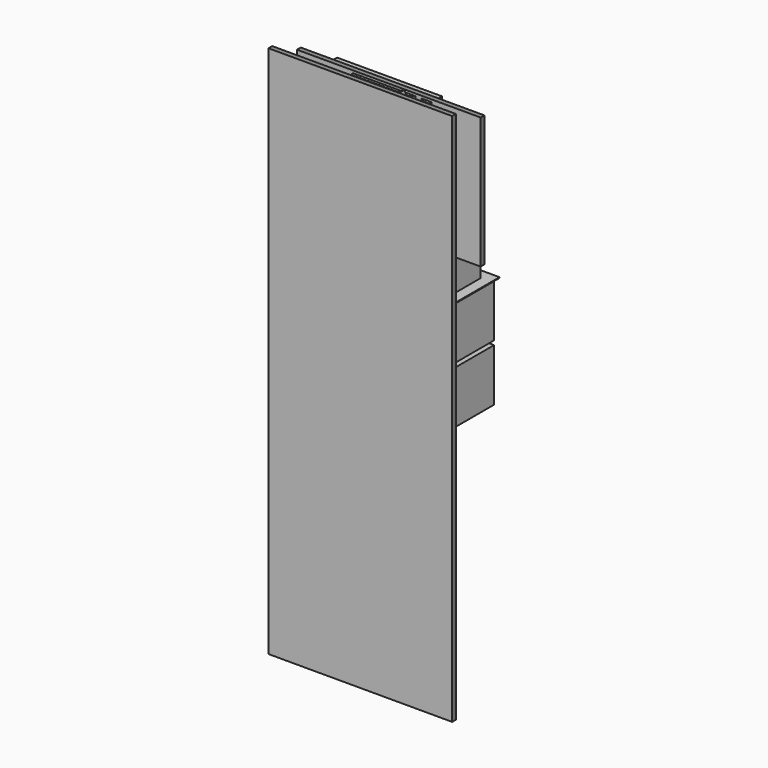
from build123d import *

# Parameters (mm, degrees)
SKETCH026_W                 = 19.95
SKETCH026_H                 = 24.84
PAD007_DEPTH                = 3
POCKET017_DEPTH             = 12.421
POCKET017_DEPTH_BACK        = 12.421
SKETCH028_W                 = 5
SKETCH028_H                 = 0.56
POCKET018_DEPTH             = 12.421
POCKET018_DEPTH_BACK        = 12.421
BODY008_ROLL_ANGLE          = 90
BODY008_PLACEMENT_ANGLE     = 180
BOX248_W                    = 5
BOX248_H                    = 5
BOX248_DEPTH                = 0.25
BOX249_W                    = 5
BOX249_H                    = 5
BOX249_DEPTH                = 0.25
BOX250_W                    = 5
BOX250_H                    = 5
BOX250_DEPTH                = 0.25
BOX251_W                    = 5
BOX251_H                    = 5
BOX251_DEPTH                = 0.25
CYLINDER119_R               = 0.5
CYLINDER119_DEPTH           = 0.01
BOX252_W                    = 4.5
BOX252_H                    = 5.5
BOX252_DEPTH                = 0.5
CUT131_ROLL_ANGLE           = 90
CUT131_PITCH_ANGLE          = 32
CUT131_PLACEMENT_ANGLE      = 180
BOX254_W                    = 6
BOX254_H                    = 6.45
BOX254_DEPTH                = 1.05
BOX253_W                    = 6
BOX253_H                    = 6.5
BOX253_DEPTH                = 1.15
CUT132_ROLL_ANGLE           = -90
CUT132_PITCH_ANGLE          = 58
CYLINDER120_R               = 0.5
CYLINDER120_DEPTH           = 0.01
BOX255_W                    = 4.5
BOX255_H                    = 5.5
BOX255_DEPTH                = 0.5
CUT133_ROLL_ANGLE           = -90
CUT133_PITCH_ANGLE          = -32
BOX257_W                    = 5
BOX257_H                    = 7.45
BOX257_DEPTH                = 1.1
BOX256_W                    = 5
BOX256_H                    = 7.5
BOX256_DEPTH                = 1.2
CUT134_ROLL_ANGLE           = 90
CUT134_PITCH_ANGLE          = 32
CUT134_PLACEMENT_ANGLE      = 180
BOX259_W                    = 6
BOX259_H                    = 6.45
BOX259_DEPTH                = 1.05
BOX258_W                    = 6
BOX258_H                    = 6.5
BOX258_DEPTH                = 1.15
CUT135_ROLL_ANGLE           = -90
CUT135_PITCH_ANGLE          = 58
CYLINDER121_R               = 0.5
CYLINDER121_DEPTH           = 0.01
BOX260_W                    = 4.5
BOX260_H                    = 5.5
BOX260_DEPTH                = 0.5
CUT136_ROLL_ANGLE           = 90
CUT136_PITCH_ANGLE          = 32
CUT136_PLACEMENT_ANGLE      = 180
CYLINDER122_R               = 0.5
CYLINDER122_DEPTH           = 0.01
BOX261_W                    = 4.5
BOX261_H                    = 5.5
BOX261_DEPTH                = 0.5
CUT137_ROLL_ANGLE           = -90
CUT137_PITCH_ANGLE          = -32
BOX262_W                    = 10
BOX262_H                    = 10
BOX262_DEPTH                = 10
CUT138_ROLL_ANGLE           = 90
CUT138_PITCH_ANGLE          = 32
CUT138_PLACEMENT_ANGLE      = 180
CYLINDER124_R               = 0.5
CYLINDER124_DEPTH           = 0.01
BOX263_W                    = 4.5
BOX263_H                    = 5.5
BOX263_DEPTH                = 0.5
CUT139_ROLL_ANGLE           = 90
CUT139_PITCH_ANGLE          = 32
CUT139_PLACEMENT_ANGLE      = 180
BOX265_W                    = 6
BOX265_H                    = 6.45
BOX265_DEPTH                = 1.05
BOX264_W                    = 6
BOX264_H                    = 6.5
BOX264_DEPTH                = 1.15
CUT140_ROLL_ANGLE           = -90
CUT140_PITCH_ANGLE          = 58
CYLINDER125_R               = 0.5
CYLINDER125_DEPTH           = 0.01
BOX266_W                    = 4.5
BOX266_H                    = 5.5
BOX266_DEPTH                = 0.5
CUT141_ROLL_ANGLE           = -90
CUT141_PITCH_ANGLE          = -32
BOX268_W                    = 5
BOX268_H                    = 7.45
BOX268_DEPTH                = 1.1
BOX267_W                    = 5
BOX267_H                    = 7.5
BOX267_DEPTH                = 1.2
CUT142_ROLL_ANGLE           = 90
CUT142_PITCH_ANGLE          = 32
CUT142_PLACEMENT_ANGLE      = 180
BOX270_W                    = 6
BOX270_H                    = 6.45
BOX270_DEPTH                = 1.05
BOX269_W                    = 6
BOX269_H                    = 6.5
BOX269_DEPTH                = 1.15
CUT143_ROLL_ANGLE           = -90
CUT143_PITCH_ANGLE          = 58
CYLINDER126_R               = 0.5
CYLINDER126_DEPTH           = 0.01
BOX271_W                    = 4.5
BOX271_H                    = 5.5
BOX271_DEPTH                = 0.5
CUT144_ROLL_ANGLE           = 90
CUT144_PITCH_ANGLE          = 32
CUT144_PLACEMENT_ANGLE      = 180
CYLINDER127_R               = 0.5
CYLINDER127_DEPTH           = 0.01
BOX272_W                    = 4.5
BOX272_H                    = 5.5
BOX272_DEPTH                = 0.5
CUT145_ROLL_ANGLE           = -90
CUT145_PITCH_ANGLE          = -32
BOX273_W                    = 10
BOX273_H                    = 10
BOX273_DEPTH                = 10
CUT146_ROLL_ANGLE           = 90
CUT146_PITCH_ANGLE          = 32
CUT146_PLACEMENT_ANGLE      = 180
CYLINDER129_R               = 0.5
CYLINDER129_DEPTH           = 0.01
BOX274_W                    = 4.5
BOX274_H                    = 5.5
BOX274_DEPTH                = 0.5
CUT147_ROLL_ANGLE           = 90
CUT147_PITCH_ANGLE          = 32
CUT147_PLACEMENT_ANGLE      = 180
BOX276_W                    = 6
BOX276_H                    = 6.45
BOX276_DEPTH                = 1.05
BOX275_W                    = 6
BOX275_H                    = 6.5
BOX275_DEPTH                = 1.15
CUT148_ROLL_ANGLE           = -90
CUT148_PITCH_ANGLE          = 58
CYLINDER130_R               = 0.5
CYLINDER130_DEPTH           = 0.01
BOX277_W                    = 4.5
BOX277_H                    = 5.5
BOX277_DEPTH                = 0.5
CUT149_ROLL_ANGLE           = -90
CUT149_PITCH_ANGLE          = -32
BOX279_W                    = 5
BOX279_H                    = 7.45
BOX279_DEPTH                = 1.1
BOX278_W                    = 5
BOX278_H                    = 7.5
BOX278_DEPTH                = 1.2
CUT150_ROLL_ANGLE           = 90
CUT150_PITCH_ANGLE          = 32
CUT150_PLACEMENT_ANGLE      = 180
BOX281_W                    = 6
BOX281_H                    = 6.45
BOX281_DEPTH                = 1.05
BOX280_W                    = 6
BOX280_H                    = 6.5
BOX280_DEPTH                = 1.15
CUT151_ROLL_ANGLE           = -90
CUT151_PITCH_ANGLE          = 58
CYLINDER131_R               = 0.5
CYLINDER131_DEPTH           = 0.01
BOX282_W                    = 4.5
BOX282_H                    = 5.5
BOX282_DEPTH                = 0.5
CUT152_ROLL_ANGLE           = 90
CUT152_PITCH_ANGLE          = 32
CUT152_PLACEMENT_ANGLE      = 180
CYLINDER132_R               = 0.5
CYLINDER132_DEPTH           = 0.01
BOX283_W                    = 4.5
BOX283_H                    = 5.5
BOX283_DEPTH                = 0.5
CUT153_ROLL_ANGLE           = -90
CUT153_PITCH_ANGLE          = -32
BOX284_W                    = 10
BOX284_H                    = 10
BOX284_DEPTH                = 10
CUT154_ROLL_ANGLE           = 90
CUT154_PITCH_ANGLE          = 32
CUT154_PLACEMENT_ANGLE      = 180
CYLINDER114_R               = 3.18
CYLINDER114_DEPTH           = 0.79
CYLINDER115_R               = 3.18
CYLINDER115_DEPTH           = 0.79
CYLINDER116_R               = 3.18
CYLINDER116_DEPTH           = 0.79
CYLINDER117_R               = 3.18
CYLINDER117_DEPTH           = 0.79
CYLINDER118_R               = 2.38
CYLINDER118_DEPTH           = 1.59
CYLINDER118_ROLL_ANGLE      = 90
CYLINDER118_PITCH_ANGLE     = 32
CYLINDER118_PLACEMENT_ANGLE = 180
CYLINDER123_R               = 2.38
CYLINDER123_DEPTH           = 1.59
CYLINDER123_ROLL_ANGLE      = 90
CYLINDER123_PITCH_ANGLE     = 32
CYLINDER123_PLACEMENT_ANGLE = 180
CYLINDER128_R               = 2.38
CYLINDER128_DEPTH           = 1.59
CYLINDER128_ROLL_ANGLE      = 90
CYLINDER128_PITCH_ANGLE     = 32
CYLINDER128_PLACEMENT_ANGLE = 180
BOX287_W                    = 5.5
BOX287_H                    = 5.5
BOX287_DEPTH                = 0.41
CYLINDER133_R               = 2.38
CYLINDER133_DEPTH           = 1.59
BOX288_W                    = 12
BOX288_H                    = 12
BOX288_DEPTH                = 0.05
BOX289_W                    = 12
BOX289_H                    = 12
BOX289_DEPTH                = 0.15
BOX290_W                    = 12
BOX290_H                    = 12
BOX290_DEPTH                = 0.15
BOX291_W                    = 12
BOX291_H                    = 12
BOX291_DEPTH                = 0.15
BOX292_W                    = 12
BOX292_H                    = 12
BOX292_DEPTH                = 0.15
BOX293_W                    = 10
BOX293_H                    = 10
BOX293_DEPTH                = 10
BOX294_W                    = 11
BOX294_H                    = 11
BOX294_DEPTH                = 0.41
CYLINDER134_R               = 4.76
CYLINDER134_DEPTH           = 1.59
CYLINDER135_R               = 4.76
CYLINDER135_DEPTH           = 1.59
BOX295_W                    = 10
BOX295_H                    = 10
BOX295_DEPTH                = 10
BOX296_W                    = 12
BOX296_H                    = 12
BOX296_DEPTH                = 0.15
BOX297_W                    = 10
BOX297_H                    = 10
BOX297_DEPTH                = 10
BOX298_W                    = 12
BOX298_H                    = 12
BOX298_DEPTH                = 0.15
CYLINDER136_R               = 4.76
CYLINDER136_DEPTH           = 1.59
BOX299_W                    = 10
BOX299_H                    = 10
BOX299_DEPTH                = 10
CYLINDER137_R               = 4.76
CYLINDER137_DEPTH           = 1.59
BOX_W                       = 35
BOX_H                       = 25
BOX_DEPTH                   = 0.15
BOX300_W                    = 35
BOX300_H                    = 25
BOX300_DEPTH                = 0.15
BOX301_W                    = 35
BOX301_H                    = 25
BOX301_DEPTH                = 0.15
BOX302_W                    = 35
BOX302_H                    = 25
BOX302_DEPTH                = 0.15
BOX303_W                    = 35
BOX303_H                    = 25
BOX303_DEPTH                = 0.15
BOX304_W                    = 35
BOX304_H                    = 25
BOX304_DEPTH                = 0.15
CYLINDER138_R               = 3.18
CYLINDER138_DEPTH           = 0.79
BOX305_W                    = 10
BOX305_H                    = 10
BOX305_DEPTH                = 10
CYLINDER139_R               = 3.18
CYLINDER139_DEPTH           = 0.79
BOX306_W                    = 10
BOX306_H                    = 10
BOX306_DEPTH                = 10
CYLINDER140_R               = 3.18
CYLINDER140_DEPTH           = 0.79
BOX307_W                    = 10
BOX307_H                    = 10
BOX307_DEPTH                = 10
CYLINDER141_R               = 3.18
CYLINDER141_DEPTH           = 0.79
BOX308_W                    = 10
BOX308_H                    = 10
BOX308_DEPTH                = 10
CYLINDER142_R               = 3.18
CYLINDER142_DEPTH           = 0.79
CYLINDER143_R               = 3.18
CYLINDER143_DEPTH           = 0.79
BOX309_W                    = 35
BOX309_H                    = 101.6
BOX309_DEPTH                = 0.15
BOX310_W                    = 35
BOX310_H                    = 101.6
BOX310_DEPTH                = 0.15
BOX311_W                    = 35
BOX311_H                    = 101.6
BOX311_DEPTH                = 0.15
BOX312_W                    = 35
BOX312_H                    = 101.6
BOX312_DEPTH                = 0.15
BOX313_W                    = 35
BOX313_H                    = 101.6
BOX313_DEPTH                = 0.15
BOX314_W                    = 35
BOX314_H                    = 101.6
BOX314_DEPTH                = 0.15


with BuildPart() as coarse_z_slider_phase_i:
    # Sketch026 (on XY_Plane011 of Origin042) → Pad007 (new body)
    with BuildSketch(Plane.XY):
        with Locations((2.325, 0)):
            Rectangle(SKETCH026_W, SKETCH026_H)
    extrude(amount=PAD007_DEPTH)

    # Sketch027 (on XZ_Plane011 of Origin042) → Pocket017 (cut, two sides)
    with BuildSketch(Plane.XZ) as pocket017_sk:
        Polygon((-5.15, 0.866025), (-6.65, 0), (-3.65, 0), align=None)
    extrude(amount=-POCKET017_DEPTH, mode=Mode.SUBTRACT)
    extrude(pocket017_sk.sketch, amount=POCKET017_DEPTH_BACK, mode=Mode.SUBTRACT)

    # Sketch028 (on XZ_Plane011 of Origin042) → Pocket018 (cut, two sides)
    with BuildSketch(Plane.XZ) as pocket018_sk:
        with Locations((9.8, 0.28)):
            Rectangle(SKETCH028_W, SKETCH028_H)
    extrude(amount=-POCKET018_DEPTH, mode=Mode.SUBTRACT)
    extrude(pocket018_sk.sketch, amount=POCKET018_DEPTH_BACK, mode=Mode.SUBTRACT)


with BuildPart() as coarse_z_slider_phase_i_1:
    # Body008 roll: moved
    add(coarse_z_slider_phase_i.part.rotate(Axis((0, 0, 0), (1, 0, 0)), BODY008_ROLL_ANGLE))


with BuildPart() as coarse_z_slider_phase_i_2:
    # Body008 placement: moved
    add(coarse_z_slider_phase_i_1.part.moved(Location((13, 5.33, 24.12))).rotate(Axis((13, 5.33, 24.12), (0, 0, 1)), BODY008_PLACEMENT_ANGLE))


with BuildPart() as steel_shim_spacer016:
    # Box248 → Box248 (new body)
    with BuildSketch(Plane(origin=(14.5, 0, 21.62), x_dir=(-1, 0, 0), z_dir=(0, 1, 0))):
        with Locations((2.5, 2.5)):
            Rectangle(BOX248_W, BOX248_H)
    extrude(amount=BOX248_DEPTH)


with BuildPart() as steel_shim_spacer017:
    # Box249 → Box249 (new body)
    with BuildSketch(Plane(origin=(14.5, 1.04, 21.62), x_dir=(-1, 0, 0), z_dir=(0, 1, 0))):
        with Locations((2.5, 2.5)):
            Rectangle(BOX249_W, BOX249_H)
    extrude(amount=BOX249_DEPTH)


with BuildPart() as steel_shim_spacer018:
    # Box250 → Box250 (new body)
    with BuildSketch(Plane(origin=(14.5, 2.08, 21.62), x_dir=(-1, 0, 0), z_dir=(0, 1, 0))):
        with Locations((2.5, 2.5)):
            Rectangle(BOX250_W, BOX250_H)
    extrude(amount=BOX250_DEPTH)


with BuildPart() as steel_shim_spacer019:
    # Box251 → Box251 (new body)
    with BuildSketch(Plane(origin=(14.5, 3.12, 21.62), x_dir=(-1, 0, 0), z_dir=(0, 1, 0))):
        with Locations((2.5, 2.5)):
            Rectangle(BOX251_W, BOX251_H)
    extrude(amount=BOX251_DEPTH)


with BuildPart() as cylinder119:
    # Cylinder119 → Cylinder119 (new body)
    with BuildSketch(Plane(origin=(1, 4.5, 0.49), x_dir=(1, 0, 0), z_dir=(0, 0, 1))):
        Circle(CYLINDER119_R)
    extrude(amount=CYLINDER119_DEPTH)


with BuildPart() as obj1:
    # Box252 → Box252 (new body)
    with BuildSketch(Plane.XY):
        with Locations((2.25, 2.75)):
            Rectangle(BOX252_W, BOX252_H)
    extrude(amount=BOX252_DEPTH)

    # Cut131: cut Cylinder119
    add(cylinder119.part, mode=Mode.SUBTRACT)


with BuildPart() as obj1_1:
    # Cut131 roll: moved
    add(obj1.part.rotate(Axis((0, 0, 0), (1, 0, 0)), CUT131_ROLL_ANGLE))


with BuildPart() as obj1_2:
    # Cut131 pitch: moved
    add(obj1_1.part.rotate(Axis((0, 0, 0), (0, 1, 0)), CUT131_PITCH_ANGLE))


with BuildPart() as obj1_3:
    # Cut131 placement: moved
    add(obj1_2.part.moved(Location((21.429562, 1.64, 14.442853))).rotate(Axis((21.429562, 1.64, 14.442853), (0, 0, 1)), CUT131_PLACEMENT_ANGLE))


with BuildPart() as small_cu_gnd_electrode106:
    # Box254 → Box254 (new body)
    with BuildSketch(Plane.XY.offset(0.05)):
        with Locations((3, 3.225)):
            Rectangle(BOX254_W, BOX254_H)
    extrude(amount=BOX254_DEPTH)


with BuildPart() as small_cu_electrode_short_axis_gnd014:
    # Box253 → Box253 (new body)
    with BuildSketch(Plane.XY):
        with Locations((3, 3.25)):
            Rectangle(BOX253_W, BOX253_H)
    extrude(amount=BOX253_DEPTH)

    # Cut132: cut Small Cu GND Electrode106
    add(small_cu_gnd_electrode106.part, mode=Mode.SUBTRACT)


with BuildPart() as small_cu_electrode_short_axis_gnd014_1:
    # Cut132 roll: moved
    add(small_cu_electrode_short_axis_gnd014.part.rotate(Axis((0, 0, 0), (1, 0, 0)), CUT132_ROLL_ANGLE))


with BuildPart() as small_cu_electrode_short_axis_gnd014_2:
    # Cut132 pitch: moved
    add(small_cu_electrode_short_axis_gnd014_1.part.rotate(Axis((0, 0, 0), (0, 1, 0)), CUT132_PITCH_ANGLE))


with BuildPart() as small_cu_electrode_short_axis_gnd014_3:
    # Cut132 placement: moved
    add(small_cu_electrode_short_axis_gnd014_2.part.moved(Location((18.250047, 1.59, 19.531142))))


with BuildPart() as cylinder120:
    # Cylinder120 → Cylinder120 (new body)
    with BuildSketch(Plane(origin=(1, 4.5, 0.49), x_dir=(1, 0, 0), z_dir=(0, 0, 1))):
        Circle(CYLINDER120_R)
    extrude(amount=CYLINDER120_DEPTH)


with BuildPart() as obj2:
    # Box255 → Box255 (new body)
    with BuildSketch(Plane.XY):
        with Locations((2.25, 2.75)):
            Rectangle(BOX255_W, BOX255_H)
    extrude(amount=BOX255_DEPTH)

    # Cut133: cut Cylinder120
    add(cylinder120.part, mode=Mode.SUBTRACT)


with BuildPart() as obj2_1:
    # Cut133 roll: moved
    add(obj2.part.rotate(Axis((0, 0, 0), (1, 0, 0)), CUT133_ROLL_ANGLE))


with BuildPart() as obj2_2:
    # Cut133 pitch: moved
    add(obj2_1.part.rotate(Axis((0, 0, 0), (0, 1, 0)), CUT133_PITCH_ANGLE))


with BuildPart() as obj2_3:
    # Cut133 placement: moved
    add(obj2_2.part.moved(Location((14.69879, 2.19, 16.722481))))


with BuildPart() as small_cu_gnd_electrode108:
    # Box257 → Box257 (new body)
    with BuildSketch(Plane.XY.offset(0.05)):
        with Locations((2.5, 3.725)):
            Rectangle(BOX257_W, BOX257_H)
    extrude(amount=BOX257_DEPTH)


with BuildPart() as small_cu_electrode001_long_axis_v014:
    # Box256 → Box256 (new body)
    with BuildSketch(Plane.XY):
        with Locations((2.5, 3.75)):
            Rectangle(BOX256_W, BOX256_H)
    extrude(amount=BOX256_DEPTH)

    # Cut134: cut Small Cu GND Electrode108
    add(small_cu_gnd_electrode108.part, mode=Mode.SUBTRACT)


with BuildPart() as small_cu_electrode001_long_axis_v014_1:
    # Cut134 roll: moved
    add(small_cu_electrode001_long_axis_v014.part.rotate(Axis((0, 0, 0), (1, 0, 0)), CUT134_ROLL_ANGLE))


with BuildPart() as small_cu_electrode001_long_axis_v014_2:
    # Cut134 pitch: moved
    add(small_cu_electrode001_long_axis_v014_1.part.rotate(Axis((0, 0, 0), (0, 1, 0)), CUT134_PITCH_ANGLE))


with BuildPart() as small_cu_electrode001_long_axis_v014_3:
    # Cut134 placement: moved
    add(small_cu_electrode001_long_axis_v014_2.part.moved(Location((21.429562, 2.14, 14.442853))).rotate(Axis((21.429562, 2.14, 14.442853), (0, 0, 1)), CUT134_PLACEMENT_ANGLE))


with BuildPart() as small_cu_gnd_electrode110:
    # Box259 → Box259 (new body)
    with BuildSketch(Plane.XY.offset(0.05)):
        with Locations((3, 3.225)):
            Rectangle(BOX259_W, BOX259_H)
    extrude(amount=BOX259_DEPTH)


with BuildPart() as small_cu_electrode002_short_axis_gnd014:
    # Box258 → Box258 (new body)
    with BuildSketch(Plane.XY):
        with Locations((3, 3.25)):
            Rectangle(BOX258_W, BOX258_H)
    extrude(amount=BOX258_DEPTH)

    # Cut135: cut Small Cu GND Electrode110
    add(small_cu_gnd_electrode110.part, mode=Mode.SUBTRACT)


with BuildPart() as small_cu_electrode002_short_axis_gnd014_1:
    # Cut135 roll: moved
    add(small_cu_electrode002_short_axis_gnd014.part.rotate(Axis((0, 0, 0), (1, 0, 0)), CUT135_ROLL_ANGLE))


with BuildPart() as small_cu_electrode002_short_axis_gnd014_2:
    # Cut135 pitch: moved
    add(small_cu_electrode002_short_axis_gnd014_1.part.rotate(Axis((0, 0, 0), (0, 1, 0)), CUT135_PITCH_ANGLE))


with BuildPart() as small_cu_electrode002_short_axis_gnd014_3:
    # Cut135 placement: moved
    add(small_cu_electrode002_short_axis_gnd014_2.part.moved(Location((18.250047, 2.74, 19.531142))))


with BuildPart() as cylinder121:
    # Cylinder121 → Cylinder121 (new body)
    with BuildSketch(Plane(origin=(1, 4.5, 0.49), x_dir=(1, 0, 0), z_dir=(0, 0, 1))):
        Circle(CYLINDER121_R)
    extrude(amount=CYLINDER121_DEPTH)


with BuildPart() as obj3:
    # Box260 → Box260 (new body)
    with BuildSketch(Plane.XY):
        with Locations((2.25, 2.75)):
            Rectangle(BOX260_W, BOX260_H)
    extrude(amount=BOX260_DEPTH)

    # Cut136: cut Cylinder121
    add(cylinder121.part, mode=Mode.SUBTRACT)


with BuildPart() as obj3_1:
    # Cut136 roll: moved
    add(obj3.part.rotate(Axis((0, 0, 0), (1, 0, 0)), CUT136_ROLL_ANGLE))


with BuildPart() as obj3_2:
    # Cut136 pitch: moved
    add(obj3_1.part.rotate(Axis((0, 0, 0), (0, 1, 0)), CUT136_PITCH_ANGLE))


with BuildPart() as obj3_3:
    # Cut136 placement: moved
    add(obj3_2.part.moved(Location((21.429562, 2.79, 14.442853))).rotate(Axis((21.429562, 2.79, 14.442853), (0, 0, 1)), CUT136_PLACEMENT_ANGLE))


with BuildPart() as cylinder122:
    # Cylinder122 → Cylinder122 (new body)
    with BuildSketch(Plane(origin=(1, 4.5, 0.49), x_dir=(1, 0, 0), z_dir=(0, 0, 1))):
        Circle(CYLINDER122_R)
    extrude(amount=CYLINDER122_DEPTH)


with BuildPart() as obj4:
    # Box261 → Box261 (new body)
    with BuildSketch(Plane.XY):
        with Locations((2.25, 2.75)):
            Rectangle(BOX261_W, BOX261_H)
    extrude(amount=BOX261_DEPTH)

    # Cut137: cut Cylinder122
    add(cylinder122.part, mode=Mode.SUBTRACT)


with BuildPart() as obj4_1:
    # Cut137 roll: moved
    add(obj4.part.rotate(Axis((0, 0, 0), (1, 0, 0)), CUT137_ROLL_ANGLE))


with BuildPart() as obj4_2:
    # Cut137 pitch: moved
    add(obj4_1.part.rotate(Axis((0, 0, 0), (0, 1, 0)), CUT137_PITCH_ANGLE))


with BuildPart() as obj4_3:
    # Cut137 placement: moved
    add(obj4_2.part.moved(Location((14.69879, 3.34, 16.722481))))


with BuildPart() as cube022:
    # Box262 → Box262 (new body)
    with BuildSketch(Plane(origin=(-5, -5, -10), x_dir=(1, 0, 0), z_dir=(0, 0, 1))):
        with Locations((5, 5)):
            Rectangle(BOX262_W, BOX262_H)
    extrude(amount=BOX262_DEPTH)


with BuildPart() as sapphire_half_ball_lens018:
    # Sphere018 → Sphere018 (revolve)
    with BuildSketch(Plane.XZ):
        with BuildLine():
            ThreePointArc((0, -2), (2, 0), (0, 2))
            Line((0, 2), (0, -2))
        make_face()
    revolve(axis=Axis((0, 0, 0), (0, 0, 1)))

    # Cut138: cut Cube022
    add(cube022.part, mode=Mode.SUBTRACT)


with BuildPart() as sapphire_half_ball_lens018_1:
    # Cut138 roll: moved
    add(sapphire_half_ball_lens018.part.rotate(Axis((0, 0, 0), (1, 0, 0)), CUT138_ROLL_ANGLE))


with BuildPart() as sapphire_half_ball_lens018_2:
    # Cut138 pitch: moved
    add(sapphire_half_ball_lens018_1.part.rotate(Axis((0, 0, 0), (0, 1, 0)), CUT138_PITCH_ANGLE))


with BuildPart() as sapphire_half_ball_lens018_3:
    # Cut138 placement: moved
    add(sapphire_half_ball_lens018_2.part.moved(Location((18.15, 3.89, 15.2))).rotate(Axis((18.15, 3.89, 15.2), (0, 0, 1)), CUT138_PLACEMENT_ANGLE))


with BuildPart() as cylinder124:
    # Cylinder124 → Cylinder124 (new body)
    with BuildSketch(Plane(origin=(1, 4.5, 0.49), x_dir=(1, 0, 0), z_dir=(0, 0, 1))):
        Circle(CYLINDER124_R)
    extrude(amount=CYLINDER124_DEPTH)


with BuildPart() as obj5:
    # Box263 → Box263 (new body)
    with BuildSketch(Plane.XY):
        with Locations((2.25, 2.75)):
            Rectangle(BOX263_W, BOX263_H)
    extrude(amount=BOX263_DEPTH)

    # Cut139: cut Cylinder124
    add(cylinder124.part, mode=Mode.SUBTRACT)


with BuildPart() as obj5_1:
    # Cut139 roll: moved
    add(obj5.part.rotate(Axis((0, 0, 0), (1, 0, 0)), CUT139_ROLL_ANGLE))


with BuildPart() as obj5_2:
    # Cut139 pitch: moved
    add(obj5_1.part.rotate(Axis((0, 0, 0), (0, 1, 0)), CUT139_PITCH_ANGLE))


with BuildPart() as obj5_3:
    # Cut139 placement: moved
    add(obj5_2.part.moved(Location((21.429562, 1.64, 32.282853))).rotate(Axis((21.429562, 1.64, 32.282853), (0, 0, 1)), CUT139_PLACEMENT_ANGLE))


with BuildPart() as small_cu_gnd_electrode112:
    # Box265 → Box265 (new body)
    with BuildSketch(Plane.XY.offset(0.05)):
        with Locations((3, 3.225)):
            Rectangle(BOX265_W, BOX265_H)
    extrude(amount=BOX265_DEPTH)


with BuildPart() as small_cu_electrode_short_axis_gnd015:
    # Box264 → Box264 (new body)
    with BuildSketch(Plane.XY):
        with Locations((3, 3.25)):
            Rectangle(BOX264_W, BOX264_H)
    extrude(amount=BOX264_DEPTH)

    # Cut140: cut Small Cu GND Electrode112
    add(small_cu_gnd_electrode112.part, mode=Mode.SUBTRACT)


with BuildPart() as small_cu_electrode_short_axis_gnd015_1:
    # Cut140 roll: moved
    add(small_cu_electrode_short_axis_gnd015.part.rotate(Axis((0, 0, 0), (1, 0, 0)), CUT140_ROLL_ANGLE))


with BuildPart() as small_cu_electrode_short_axis_gnd015_2:
    # Cut140 pitch: moved
    add(small_cu_electrode_short_axis_gnd015_1.part.rotate(Axis((0, 0, 0), (0, 1, 0)), CUT140_PITCH_ANGLE))


with BuildPart() as small_cu_electrode_short_axis_gnd015_3:
    # Cut140 placement: moved
    add(small_cu_electrode_short_axis_gnd015_2.part.moved(Location((18.250047, 1.59, 37.371142))))


with BuildPart() as cylinder125:
    # Cylinder125 → Cylinder125 (new body)
    with BuildSketch(Plane(origin=(1, 4.5, 0.49), x_dir=(1, 0, 0), z_dir=(0, 0, 1))):
        Circle(CYLINDER125_R)
    extrude(amount=CYLINDER125_DEPTH)


with BuildPart() as obj6:
    # Box266 → Box266 (new body)
    with BuildSketch(Plane.XY):
        with Locations((2.25, 2.75)):
            Rectangle(BOX266_W, BOX266_H)
    extrude(amount=BOX266_DEPTH)

    # Cut141: cut Cylinder125
    add(cylinder125.part, mode=Mode.SUBTRACT)


with BuildPart() as obj6_1:
    # Cut141 roll: moved
    add(obj6.part.rotate(Axis((0, 0, 0), (1, 0, 0)), CUT141_ROLL_ANGLE))


with BuildPart() as obj6_2:
    # Cut141 pitch: moved
    add(obj6_1.part.rotate(Axis((0, 0, 0), (0, 1, 0)), CUT141_PITCH_ANGLE))


with BuildPart() as obj6_3:
    # Cut141 placement: moved
    add(obj6_2.part.moved(Location((14.69879, 2.19, 34.562481))))


with BuildPart() as small_cu_gnd_electrode114:
    # Box268 → Box268 (new body)
    with BuildSketch(Plane.XY.offset(0.05)):
        with Locations((2.5, 3.725)):
            Rectangle(BOX268_W, BOX268_H)
    extrude(amount=BOX268_DEPTH)


with BuildPart() as small_cu_electrode001_long_axis_v015:
    # Box267 → Box267 (new body)
    with BuildSketch(Plane.XY):
        with Locations((2.5, 3.75)):
            Rectangle(BOX267_W, BOX267_H)
    extrude(amount=BOX267_DEPTH)

    # Cut142: cut Small Cu GND Electrode114
    add(small_cu_gnd_electrode114.part, mode=Mode.SUBTRACT)


with BuildPart() as small_cu_electrode001_long_axis_v015_1:
    # Cut142 roll: moved
    add(small_cu_electrode001_long_axis_v015.part.rotate(Axis((0, 0, 0), (1, 0, 0)), CUT142_ROLL_ANGLE))


with BuildPart() as small_cu_electrode001_long_axis_v015_2:
    # Cut142 pitch: moved
    add(small_cu_electrode001_long_axis_v015_1.part.rotate(Axis((0, 0, 0), (0, 1, 0)), CUT142_PITCH_ANGLE))


with BuildPart() as small_cu_electrode001_long_axis_v015_3:
    # Cut142 placement: moved
    add(small_cu_electrode001_long_axis_v015_2.part.moved(Location((21.429562, 2.14, 32.282853))).rotate(Axis((21.429562, 2.14, 32.282853), (0, 0, 1)), CUT142_PLACEMENT_ANGLE))


with BuildPart() as small_cu_gnd_electrode116:
    # Box270 → Box270 (new body)
    with BuildSketch(Plane.XY.offset(0.05)):
        with Locations((3, 3.225)):
            Rectangle(BOX270_W, BOX270_H)
    extrude(amount=BOX270_DEPTH)


with BuildPart() as small_cu_electrode002_short_axis_gnd015:
    # Box269 → Box269 (new body)
    with BuildSketch(Plane.XY):
        with Locations((3, 3.25)):
            Rectangle(BOX269_W, BOX269_H)
    extrude(amount=BOX269_DEPTH)

    # Cut143: cut Small Cu GND Electrode116
    add(small_cu_gnd_electrode116.part, mode=Mode.SUBTRACT)


with BuildPart() as small_cu_electrode002_short_axis_gnd015_1:
    # Cut143 roll: moved
    add(small_cu_electrode002_short_axis_gnd015.part.rotate(Axis((0, 0, 0), (1, 0, 0)), CUT143_ROLL_ANGLE))


with BuildPart() as small_cu_electrode002_short_axis_gnd015_2:
    # Cut143 pitch: moved
    add(small_cu_electrode002_short_axis_gnd015_1.part.rotate(Axis((0, 0, 0), (0, 1, 0)), CUT143_PITCH_ANGLE))


with BuildPart() as small_cu_electrode002_short_axis_gnd015_3:
    # Cut143 placement: moved
    add(small_cu_electrode002_short_axis_gnd015_2.part.moved(Location((18.250047, 2.74, 37.371142))))


with BuildPart() as cylinder126:
    # Cylinder126 → Cylinder126 (new body)
    with BuildSketch(Plane(origin=(1, 4.5, 0.49), x_dir=(1, 0, 0), z_dir=(0, 0, 1))):
        Circle(CYLINDER126_R)
    extrude(amount=CYLINDER126_DEPTH)


with BuildPart() as obj7:
    # Box271 → Box271 (new body)
    with BuildSketch(Plane.XY):
        with Locations((2.25, 2.75)):
            Rectangle(BOX271_W, BOX271_H)
    extrude(amount=BOX271_DEPTH)

    # Cut144: cut Cylinder126
    add(cylinder126.part, mode=Mode.SUBTRACT)


with BuildPart() as obj7_1:
    # Cut144 roll: moved
    add(obj7.part.rotate(Axis((0, 0, 0), (1, 0, 0)), CUT144_ROLL_ANGLE))


with BuildPart() as obj7_2:
    # Cut144 pitch: moved
    add(obj7_1.part.rotate(Axis((0, 0, 0), (0, 1, 0)), CUT144_PITCH_ANGLE))


with BuildPart() as obj7_3:
    # Cut144 placement: moved
    add(obj7_2.part.moved(Location((21.429562, 2.79, 32.282853))).rotate(Axis((21.429562, 2.79, 32.282853), (0, 0, 1)), CUT144_PLACEMENT_ANGLE))


with BuildPart() as cylinder127:
    # Cylinder127 → Cylinder127 (new body)
    with BuildSketch(Plane(origin=(1, 4.5, 0.49), x_dir=(1, 0, 0), z_dir=(0, 0, 1))):
        Circle(CYLINDER127_R)
    extrude(amount=CYLINDER127_DEPTH)


with BuildPart() as obj8:
    # Box272 → Box272 (new body)
    with BuildSketch(Plane.XY):
        with Locations((2.25, 2.75)):
            Rectangle(BOX272_W, BOX272_H)
    extrude(amount=BOX272_DEPTH)

    # Cut145: cut Cylinder127
    add(cylinder127.part, mode=Mode.SUBTRACT)


with BuildPart() as obj8_1:
    # Cut145 roll: moved
    add(obj8.part.rotate(Axis((0, 0, 0), (1, 0, 0)), CUT145_ROLL_ANGLE))


with BuildPart() as obj8_2:
    # Cut145 pitch: moved
    add(obj8_1.part.rotate(Axis((0, 0, 0), (0, 1, 0)), CUT145_PITCH_ANGLE))


with BuildPart() as obj8_3:
    # Cut145 placement: moved
    add(obj8_2.part.moved(Location((14.69879, 3.34, 34.562481))))


with BuildPart() as cube023:
    # Box273 → Box273 (new body)
    with BuildSketch(Plane(origin=(-5, -5, -10), x_dir=(1, 0, 0), z_dir=(0, 0, 1))):
        with Locations((5, 5)):
            Rectangle(BOX273_W, BOX273_H)
    extrude(amount=BOX273_DEPTH)


with BuildPart() as sapphire_half_ball_lens019:
    # Sphere019 → Sphere019 (revolve)
    with BuildSketch(Plane.XZ):
        with BuildLine():
            ThreePointArc((0, -2), (2, 0), (0, 2))
            Line((0, 2), (0, -2))
        make_face()
    revolve(axis=Axis((0, 0, 0), (0, 0, 1)))

    # Cut146: cut Cube023
    add(cube023.part, mode=Mode.SUBTRACT)


with BuildPart() as sapphire_half_ball_lens019_1:
    # Cut146 roll: moved
    add(sapphire_half_ball_lens019.part.rotate(Axis((0, 0, 0), (1, 0, 0)), CUT146_ROLL_ANGLE))


with BuildPart() as sapphire_half_ball_lens019_2:
    # Cut146 pitch: moved
    add(sapphire_half_ball_lens019_1.part.rotate(Axis((0, 0, 0), (0, 1, 0)), CUT146_PITCH_ANGLE))


with BuildPart() as sapphire_half_ball_lens019_3:
    # Cut146 placement: moved
    add(sapphire_half_ball_lens019_2.part.moved(Location((18.15, 3.89, 33.04))).rotate(Axis((18.15, 3.89, 33.04), (0, 0, 1)), CUT146_PLACEMENT_ANGLE))


with BuildPart() as cylinder129:
    # Cylinder129 → Cylinder129 (new body)
    with BuildSketch(Plane(origin=(1, 4.5, 0.49), x_dir=(1, 0, 0), z_dir=(0, 0, 1))):
        Circle(CYLINDER129_R)
    extrude(amount=CYLINDER129_DEPTH)


with BuildPart() as obj9:
    # Box274 → Box274 (new body)
    with BuildSketch(Plane.XY):
        with Locations((2.25, 2.75)):
            Rectangle(BOX274_W, BOX274_H)
    extrude(amount=BOX274_DEPTH)

    # Cut147: cut Cylinder129
    add(cylinder129.part, mode=Mode.SUBTRACT)


with BuildPart() as obj9_1:
    # Cut147 roll: moved
    add(obj9.part.rotate(Axis((0, 0, 0), (1, 0, 0)), CUT147_ROLL_ANGLE))


with BuildPart() as obj9_2:
    # Cut147 pitch: moved
    add(obj9_1.part.rotate(Axis((0, 0, 0), (0, 1, 0)), CUT147_PITCH_ANGLE))


with BuildPart() as obj9_3:
    # Cut147 placement: moved
    add(obj9_2.part.moved(Location((5.979562, 1.64, 23.362853))).rotate(Axis((5.979562, 1.64, 23.362853), (0, 0, 1)), CUT147_PLACEMENT_ANGLE))


with BuildPart() as small_cu_gnd_electrode118:
    # Box276 → Box276 (new body)
    with BuildSketch(Plane.XY.offset(0.05)):
        with Locations((3, 3.225)):
            Rectangle(BOX276_W, BOX276_H)
    extrude(amount=BOX276_DEPTH)


with BuildPart() as small_cu_electrode_short_axis_gnd016:
    # Box275 → Box275 (new body)
    with BuildSketch(Plane.XY):
        with Locations((3, 3.25)):
            Rectangle(BOX275_W, BOX275_H)
    extrude(amount=BOX275_DEPTH)

    # Cut148: cut Small Cu GND Electrode118
    add(small_cu_gnd_electrode118.part, mode=Mode.SUBTRACT)


with BuildPart() as small_cu_electrode_short_axis_gnd016_1:
    # Cut148 roll: moved
    add(small_cu_electrode_short_axis_gnd016.part.rotate(Axis((0, 0, 0), (1, 0, 0)), CUT148_ROLL_ANGLE))


with BuildPart() as small_cu_electrode_short_axis_gnd016_2:
    # Cut148 pitch: moved
    add(small_cu_electrode_short_axis_gnd016_1.part.rotate(Axis((0, 0, 0), (0, 1, 0)), CUT148_PITCH_ANGLE))


with BuildPart() as small_cu_electrode_short_axis_gnd016_3:
    # Cut148 placement: moved
    add(small_cu_electrode_short_axis_gnd016_2.part.moved(Location((2.800047, 1.59, 28.451142))))


with BuildPart() as cylinder130:
    # Cylinder130 → Cylinder130 (new body)
    with BuildSketch(Plane(origin=(1, 4.5, 0.49), x_dir=(1, 0, 0), z_dir=(0, 0, 1))):
        Circle(CYLINDER130_R)
    extrude(amount=CYLINDER130_DEPTH)


with BuildPart() as obj10:
    # Box277 → Box277 (new body)
    with BuildSketch(Plane.XY):
        with Locations((2.25, 2.75)):
            Rectangle(BOX277_W, BOX277_H)
    extrude(amount=BOX277_DEPTH)

    # Cut149: cut Cylinder130
    add(cylinder130.part, mode=Mode.SUBTRACT)


with BuildPart() as obj10_1:
    # Cut149 roll: moved
    add(obj10.part.rotate(Axis((0, 0, 0), (1, 0, 0)), CUT149_ROLL_ANGLE))


with BuildPart() as obj10_2:
    # Cut149 pitch: moved
    add(obj10_1.part.rotate(Axis((0, 0, 0), (0, 1, 0)), CUT149_PITCH_ANGLE))


with BuildPart() as obj10_3:
    # Cut149 placement: moved
    add(obj10_2.part.moved(Location((-0.75121, 2.19, 25.642481))))


with BuildPart() as small_cu_gnd_electrode120:
    # Box279 → Box279 (new body)
    with BuildSketch(Plane.XY.offset(0.05)):
        with Locations((2.5, 3.725)):
            Rectangle(BOX279_W, BOX279_H)
    extrude(amount=BOX279_DEPTH)


with BuildPart() as small_cu_electrode001_long_axis_v016:
    # Box278 → Box278 (new body)
    with BuildSketch(Plane.XY):
        with Locations((2.5, 3.75)):
            Rectangle(BOX278_W, BOX278_H)
    extrude(amount=BOX278_DEPTH)

    # Cut150: cut Small Cu GND Electrode120
    add(small_cu_gnd_electrode120.part, mode=Mode.SUBTRACT)


with BuildPart() as small_cu_electrode001_long_axis_v016_1:
    # Cut150 roll: moved
    add(small_cu_electrode001_long_axis_v016.part.rotate(Axis((0, 0, 0), (1, 0, 0)), CUT150_ROLL_ANGLE))


with BuildPart() as small_cu_electrode001_long_axis_v016_2:
    # Cut150 pitch: moved
    add(small_cu_electrode001_long_axis_v016_1.part.rotate(Axis((0, 0, 0), (0, 1, 0)), CUT150_PITCH_ANGLE))


with BuildPart() as small_cu_electrode001_long_axis_v016_3:
    # Cut150 placement: moved
    add(small_cu_electrode001_long_axis_v016_2.part.moved(Location((5.979562, 2.14, 23.362853))).rotate(Axis((5.979562, 2.14, 23.362853), (0, 0, 1)), CUT150_PLACEMENT_ANGLE))


with BuildPart() as small_cu_gnd_electrode122:
    # Box281 → Box281 (new body)
    with BuildSketch(Plane.XY.offset(0.05)):
        with Locations((3, 3.225)):
            Rectangle(BOX281_W, BOX281_H)
    extrude(amount=BOX281_DEPTH)


with BuildPart() as small_cu_electrode002_short_axis_gnd016:
    # Box280 → Box280 (new body)
    with BuildSketch(Plane.XY):
        with Locations((3, 3.25)):
            Rectangle(BOX280_W, BOX280_H)
    extrude(amount=BOX280_DEPTH)

    # Cut151: cut Small Cu GND Electrode122
    add(small_cu_gnd_electrode122.part, mode=Mode.SUBTRACT)


with BuildPart() as small_cu_electrode002_short_axis_gnd016_1:
    # Cut151 roll: moved
    add(small_cu_electrode002_short_axis_gnd016.part.rotate(Axis((0, 0, 0), (1, 0, 0)), CUT151_ROLL_ANGLE))


with BuildPart() as small_cu_electrode002_short_axis_gnd016_2:
    # Cut151 pitch: moved
    add(small_cu_electrode002_short_axis_gnd016_1.part.rotate(Axis((0, 0, 0), (0, 1, 0)), CUT151_PITCH_ANGLE))


with BuildPart() as small_cu_electrode002_short_axis_gnd016_3:
    # Cut151 placement: moved
    add(small_cu_electrode002_short_axis_gnd016_2.part.moved(Location((2.800047, 2.74, 28.451142))))


with BuildPart() as cylinder131:
    # Cylinder131 → Cylinder131 (new body)
    with BuildSketch(Plane(origin=(1, 4.5, 0.49), x_dir=(1, 0, 0), z_dir=(0, 0, 1))):
        Circle(CYLINDER131_R)
    extrude(amount=CYLINDER131_DEPTH)


with BuildPart() as obj11:
    # Box282 → Box282 (new body)
    with BuildSketch(Plane.XY):
        with Locations((2.25, 2.75)):
            Rectangle(BOX282_W, BOX282_H)
    extrude(amount=BOX282_DEPTH)

    # Cut152: cut Cylinder131
    add(cylinder131.part, mode=Mode.SUBTRACT)


with BuildPart() as obj11_1:
    # Cut152 roll: moved
    add(obj11.part.rotate(Axis((0, 0, 0), (1, 0, 0)), CUT152_ROLL_ANGLE))


with BuildPart() as obj11_2:
    # Cut152 pitch: moved
    add(obj11_1.part.rotate(Axis((0, 0, 0), (0, 1, 0)), CUT152_PITCH_ANGLE))


with BuildPart() as obj11_3:
    # Cut152 placement: moved
    add(obj11_2.part.moved(Location((5.979562, 2.79, 23.362853))).rotate(Axis((5.979562, 2.79, 23.362853), (0, 0, 1)), CUT152_PLACEMENT_ANGLE))


with BuildPart() as cylinder132:
    # Cylinder132 → Cylinder132 (new body)
    with BuildSketch(Plane(origin=(1, 4.5, 0.49), x_dir=(1, 0, 0), z_dir=(0, 0, 1))):
        Circle(CYLINDER132_R)
    extrude(amount=CYLINDER132_DEPTH)


with BuildPart() as obj12:
    # Box283 → Box283 (new body)
    with BuildSketch(Plane.XY):
        with Locations((2.25, 2.75)):
            Rectangle(BOX283_W, BOX283_H)
    extrude(amount=BOX283_DEPTH)

    # Cut153: cut Cylinder132
    add(cylinder132.part, mode=Mode.SUBTRACT)


with BuildPart() as obj12_1:
    # Cut153 roll: moved
    add(obj12.part.rotate(Axis((0, 0, 0), (1, 0, 0)), CUT153_ROLL_ANGLE))


with BuildPart() as obj12_2:
    # Cut153 pitch: moved
    add(obj12_1.part.rotate(Axis((0, 0, 0), (0, 1, 0)), CUT153_PITCH_ANGLE))


with BuildPart() as obj12_3:
    # Cut153 placement: moved
    add(obj12_2.part.moved(Location((-0.75121, 3.34, 25.642481))))


with BuildPart() as cube024:
    # Box284 → Box284 (new body)
    with BuildSketch(Plane(origin=(-5, -5, -10), x_dir=(1, 0, 0), z_dir=(0, 0, 1))):
        with Locations((5, 5)):
            Rectangle(BOX284_W, BOX284_H)
    extrude(amount=BOX284_DEPTH)


with BuildPart() as sapphire_half_ball_lens020:
    # Sphere020 → Sphere020 (revolve)
    with BuildSketch(Plane.XZ):
        with BuildLine():
            ThreePointArc((0, -2), (2, 0), (0, 2))
            Line((0, 2), (0, -2))
        make_face()
    revolve(axis=Axis((0, 0, 0), (0, 0, 1)))

    # Cut154: cut Cube024
    add(cube024.part, mode=Mode.SUBTRACT)


with BuildPart() as sapphire_half_ball_lens020_1:
    # Cut154 roll: moved
    add(sapphire_half_ball_lens020.part.rotate(Axis((0, 0, 0), (1, 0, 0)), CUT154_ROLL_ANGLE))


with BuildPart() as sapphire_half_ball_lens020_2:
    # Cut154 pitch: moved
    add(sapphire_half_ball_lens020_1.part.rotate(Axis((0, 0, 0), (0, 1, 0)), CUT154_PITCH_ANGLE))


with BuildPart() as sapphire_half_ball_lens020_3:
    # Cut154 placement: moved
    add(sapphire_half_ball_lens020_2.part.moved(Location((2.7, 3.89, 24.12))).rotate(Axis((2.7, 3.89, 24.12), (0, 0, 1)), CUT154_PLACEMENT_ANGLE))


with BuildPart() as cylinder114:
    # Cylinder114 → Cylinder114 (new body)
    with BuildSketch(Plane(origin=(12, 0.25, 24.12), x_dir=(-1, 0, 0), z_dir=(0, 1, 0))):
        Circle(CYLINDER114_R)
    extrude(amount=CYLINDER114_DEPTH)


with BuildPart() as cylinder115:
    # Cylinder115 → Cylinder115 (new body)
    with BuildSketch(Plane(origin=(12, 1.29, 24.12), x_dir=(-1, 0, 0), z_dir=(0, 1, 0))):
        Circle(CYLINDER115_R)
    extrude(amount=CYLINDER115_DEPTH)


with BuildPart() as cylinder116:
    # Cylinder116 → Cylinder116 (new body)
    with BuildSketch(Plane(origin=(12, 2.33, 24.12), x_dir=(-1, 0, 0), z_dir=(0, 1, 0))):
        Circle(CYLINDER116_R)
    extrude(amount=CYLINDER116_DEPTH)


with BuildPart() as cylinder117:
    # Cylinder117 → Cylinder117 (new body)
    with BuildSketch(Plane(origin=(12, 3.37, 24.12), x_dir=(-1, 0, 0), z_dir=(0, 1, 0))):
        Circle(CYLINDER117_R)
    extrude(amount=CYLINDER117_DEPTH)


with BuildPart() as obj13:
    # Cylinder118 → Cylinder118 (new body)
    with BuildSketch(Plane.XY):
        Circle(CYLINDER118_R)
    extrude(amount=CYLINDER118_DEPTH)


with BuildPart() as obj13_1:
    # Cylinder118 roll: moved
    add(obj13.part.rotate(Axis((0, 0, 0), (1, 0, 0)), CYLINDER118_ROLL_ANGLE))


with BuildPart() as obj13_2:
    # Cylinder118 pitch: moved
    add(obj13_1.part.rotate(Axis((0, 0, 0), (0, 1, 0)), CYLINDER118_PITCH_ANGLE))


with BuildPart() as obj13_3:
    # Cylinder118 placement: moved
    add(obj13_2.part.moved(Location((18.15, 0, 15.2))).rotate(Axis((18.15, 0, 15.2), (0, 0, 1)), CYLINDER118_PLACEMENT_ANGLE))


with BuildPart() as obj14:
    # Cylinder123 → Cylinder123 (new body)
    with BuildSketch(Plane.XY):
        Circle(CYLINDER123_R)
    extrude(amount=CYLINDER123_DEPTH)


with BuildPart() as obj14_1:
    # Cylinder123 roll: moved
    add(obj14.part.rotate(Axis((0, 0, 0), (1, 0, 0)), CYLINDER123_ROLL_ANGLE))


with BuildPart() as obj14_2:
    # Cylinder123 pitch: moved
    add(obj14_1.part.rotate(Axis((0, 0, 0), (0, 1, 0)), CYLINDER123_PITCH_ANGLE))


with BuildPart() as obj14_3:
    # Cylinder123 placement: moved
    add(obj14_2.part.moved(Location((18.15, 0, 33.04))).rotate(Axis((18.15, 0, 33.04), (0, 0, 1)), CYLINDER123_PLACEMENT_ANGLE))


with BuildPart() as obj15:
    # Cylinder128 → Cylinder128 (new body)
    with BuildSketch(Plane.XY):
        Circle(CYLINDER128_R)
    extrude(amount=CYLINDER128_DEPTH)


with BuildPart() as obj15_1:
    # Cylinder128 roll: moved
    add(obj15.part.rotate(Axis((0, 0, 0), (1, 0, 0)), CYLINDER128_ROLL_ANGLE))


with BuildPart() as obj15_2:
    # Cylinder128 pitch: moved
    add(obj15_1.part.rotate(Axis((0, 0, 0), (0, 1, 0)), CYLINDER128_PITCH_ANGLE))


with BuildPart() as obj15_3:
    # Cylinder128 placement: moved
    add(obj15_2.part.moved(Location((2.7, 0, 24.12))).rotate(Axis((2.7, 0, 24.12), (0, 0, 1)), CYLINDER128_PLACEMENT_ANGLE))


with BuildPart() as copper_shim:
    # Box287 → Box287 (new body)
    with BuildSketch(Plane(origin=(12.25, 0.5, 19.79), x_dir=(1, 0, 0), z_dir=(0, 1, 0))):
        with Locations((2.75, 2.75)):
            Rectangle(BOX287_W, BOX287_H)
    extrude(amount=BOX287_DEPTH)


with BuildPart() as obj16:
    # Cylinder133 → Cylinder133 (new body)
    with BuildSketch(Plane(origin=(15, 0.91, 17.04), x_dir=(1, 0, 0), z_dir=(0, 1, 0))):
        Circle(CYLINDER133_R)
    extrude(amount=CYLINDER133_DEPTH)


with BuildPart() as copper_shim001:
    # Box288 → Box288 (new body)
    with BuildSketch(Plane(origin=(10, 2.5, 12.04), x_dir=(0, 0, 1), z_dir=(0, 1, 0))):
        with Locations((6, 6)):
            Rectangle(BOX288_W, BOX288_H)
    extrude(amount=BOX288_DEPTH)


with BuildPart() as glass_cover_slip002:
    # Box289 → Box289 (new body)
    with BuildSketch(Plane(origin=(10, 2.55, 12.04), x_dir=(0, 0, 1), z_dir=(0, 1, 0))):
        with Locations((6, 6)):
            Rectangle(BOX289_W, BOX289_H)
    extrude(amount=BOX289_DEPTH)


with BuildPart() as glass_cover_slip003:
    # Box290 → Box290 (new body)
    with BuildSketch(Plane(origin=(10, 2.7, 12.04), x_dir=(0, 0, 1), z_dir=(0, 1, 0))):
        with Locations((6, 6)):
            Rectangle(BOX290_W, BOX290_H)
    extrude(amount=BOX290_DEPTH)


with BuildPart() as glass_cover_slip004:
    # Box291 → Box291 (new body)
    with BuildSketch(Plane(origin=(10, 2.85, 12.04), x_dir=(0, 0, 1), z_dir=(0, 1, 0))):
        with Locations((6, 6)):
            Rectangle(BOX291_W, BOX291_H)
    extrude(amount=BOX291_DEPTH)


with BuildPart() as glass_cover_slip005:
    # Box292 → Box292 (new body)
    with BuildSketch(Plane(origin=(10, 3, 12.04), x_dir=(0, 0, 1), z_dir=(0, 1, 0))):
        with Locations((6, 6)):
            Rectangle(BOX292_W, BOX292_H)
    extrude(amount=BOX292_DEPTH)


with BuildPart() as steel_cube001:
    # Box293 → Box293 (new body)
    with BuildSketch(Plane(origin=(10, 3.15, 12.04), x_dir=(0, 0, 1), z_dir=(0, 1, 0))):
        with Locations((5, 5)):
            Rectangle(BOX293_W, BOX293_H)
    extrude(amount=BOX293_DEPTH)


with BuildPart() as copper_shim002:
    # Box294 → Box294 (new body)
    with BuildSketch(Plane(origin=(9.5, 0.5, 22.54), x_dir=(1, 0, 0), z_dir=(0, 1, 0))):
        with Locations((5.5, 5.5)):
            Rectangle(BOX294_W, BOX294_H)
    extrude(amount=BOX294_DEPTH)


with BuildPart() as obj17:
    # Cylinder134 → Cylinder134 (new body)
    with BuildSketch(Plane(origin=(15, 0.91, 17.04), x_dir=(1, 0, 0), z_dir=(0, 1, 0))):
        Circle(CYLINDER134_R)
    extrude(amount=CYLINDER134_DEPTH)


with BuildPart() as obj18:
    # Cylinder135 → Cylinder135 (new body)
    with BuildSketch(Plane(origin=(15, 8.15, 0), x_dir=(1, 0, 0), z_dir=(0, 0, 1))):
        Circle(CYLINDER135_R)
    extrude(amount=CYLINDER135_DEPTH)


with BuildPart() as copper_cube:
    # Box295 → Box295 (new body)
    with BuildSketch(Plane(origin=(10, 3.15, 1.74), x_dir=(1, 0, 0), z_dir=(0, 0, 1))):
        with Locations((5, 5)):
            Rectangle(BOX295_W, BOX295_H)
    extrude(amount=BOX295_DEPTH)


with BuildPart() as glass_cover_slip006:
    # Box296 → Box296 (new body)
    with BuildSketch(Plane(origin=(10, 3.15, 1.59), x_dir=(1, 0, 0), z_dir=(0, 0, 1))):
        with Locations((6, 6)):
            Rectangle(BOX296_W, BOX296_H)
    extrude(amount=BOX296_DEPTH)


with BuildPart() as copper_cube001:
    # Box297 → Box297 (new body)
    with BuildSketch(Plane(origin=(10, 8.38, 1.74), x_dir=(1, 0, 0), z_dir=(0, 0, 1))):
        with Locations((5, 5)):
            Rectangle(BOX297_W, BOX297_H)
    extrude(amount=BOX297_DEPTH)


with BuildPart() as glass_cover_slip007:
    # Box298 → Box298 (new body)
    with BuildSketch(Plane(origin=(10, 8.38, 1.59), x_dir=(1, 0, 0), z_dir=(0, 0, 1))):
        with Locations((6, 6)):
            Rectangle(BOX298_W, BOX298_H)
    extrude(amount=BOX298_DEPTH)


with BuildPart() as obj19:
    # Cylinder136 → Cylinder136 (new body)
    with BuildSketch(Plane(origin=(15, 13.38, 0), x_dir=(1, 0, 0), z_dir=(0, 0, 1))):
        Circle(CYLINDER136_R)
    extrude(amount=CYLINDER136_DEPTH)


with BuildPart() as steel_cube004:
    # Box299 → Box299 (new body)
    with BuildSketch(Plane(origin=(10, 8.38, 22.04), x_dir=(1, 0, 0), z_dir=(0, 1, 0))):
        with Locations((5, 5)):
            Rectangle(BOX299_W, BOX299_H)
    extrude(amount=BOX299_DEPTH)


with BuildPart() as obj20:
    # Cylinder137 → Cylinder137 (new body)
    with BuildSketch(Plane(origin=(15, 6.79, 17.04), x_dir=(1, 0, 0), z_dir=(0, 1, 0))):
        Circle(CYLINDER137_R)
    extrude(amount=CYLINDER137_DEPTH)


with BuildPart() as nickel_shim:
    # Box → Box (new body)
    with BuildSketch(Plane(origin=(-5, 5.89, 37), x_dir=(1, 0, 0), z_dir=(0, 1, 0))):
        with Locations((17.5, 12.5)):
            Rectangle(BOX_W, BOX_H)
    extrude(amount=BOX_DEPTH)


with BuildPart() as nickel_shim001:
    # Box300 → Box300 (new body)
    with BuildSketch(Plane(origin=(-5, 6.04, 37), x_dir=(1, 0, 0), z_dir=(0, 1, 0))):
        with Locations((17.5, 12.5)):
            Rectangle(BOX300_W, BOX300_H)
    extrude(amount=BOX300_DEPTH)


with BuildPart() as nickel_shim002:
    # Box301 → Box301 (new body)
    with BuildSketch(Plane(origin=(-5, 6.19, 37), x_dir=(1, 0, 0), z_dir=(0, 1, 0))):
        with Locations((17.5, 12.5)):
            Rectangle(BOX301_W, BOX301_H)
    extrude(amount=BOX301_DEPTH)


with BuildPart() as nickel_shim003:
    # Box302 → Box302 (new body)
    with BuildSketch(Plane(origin=(-5, 6.34, 37), x_dir=(1, 0, 0), z_dir=(0, 1, 0))):
        with Locations((17.5, 12.5)):
            Rectangle(BOX302_W, BOX302_H)
    extrude(amount=BOX302_DEPTH)


with BuildPart() as nickel_shim004:
    # Box303 → Box303 (new body)
    with BuildSketch(Plane(origin=(-5, 6.49, 37), x_dir=(1, 0, 0), z_dir=(0, 1, 0))):
        with Locations((17.5, 12.5)):
            Rectangle(BOX303_W, BOX303_H)
    extrude(amount=BOX303_DEPTH)


with BuildPart() as nickel_shim005:
    # Box304 → Box304 (new body)
    with BuildSketch(Plane(origin=(-5, 6.64, 37), x_dir=(1, 0, 0), z_dir=(0, 1, 0))):
        with Locations((17.5, 12.5)):
            Rectangle(BOX304_W, BOX304_H)
    extrude(amount=BOX304_DEPTH)


with BuildPart() as cylinder138:
    # Cylinder138 → Cylinder138 (new body)
    with BuildSketch(Plane(origin=(15, 0, -5), x_dir=(-1, 0, 0), z_dir=(0, 1, 0))):
        Circle(CYLINDER138_R)
    extrude(amount=CYLINDER138_DEPTH)


with BuildPart() as iron_cube:
    # Box305 → Box305 (new body)
    with BuildSketch(Plane(origin=(10, 0.79, 0), x_dir=(1, 0, 0), z_dir=(0, 1, 0))):
        with Locations((5, 5)):
            Rectangle(BOX305_W, BOX305_H)
    extrude(amount=BOX305_DEPTH)


with BuildPart() as cylinder139:
    # Cylinder139 → Cylinder139 (new body)
    with BuildSketch(Plane(origin=(15, 10.79, -5), x_dir=(-1, 0, 0), z_dir=(0, 1, 0))):
        Circle(CYLINDER139_R)
    extrude(amount=CYLINDER139_DEPTH)


with BuildPart() as iron_cube001:
    # Box306 → Box306 (new body)
    with BuildSketch(Plane(origin=(10, 11.58, 0), x_dir=(1, 0, 0), z_dir=(0, 1, 0))):
        with Locations((5, 5)):
            Rectangle(BOX306_W, BOX306_H)
    extrude(amount=BOX306_DEPTH)


with BuildPart() as cylinder140:
    # Cylinder140 → Cylinder140 (new body)
    with BuildSketch(Plane(origin=(15, 0, -15.79), x_dir=(-1, 0, 0), z_dir=(0, 1, 0))):
        Circle(CYLINDER140_R)
    extrude(amount=CYLINDER140_DEPTH)


with BuildPart() as iron_cube002:
    # Box307 → Box307 (new body)
    with BuildSketch(Plane(origin=(10, 0.79, -10.79), x_dir=(1, 0, 0), z_dir=(0, 1, 0))):
        with Locations((5, 5)):
            Rectangle(BOX307_W, BOX307_H)
    extrude(amount=BOX307_DEPTH)


with BuildPart() as cylinder141:
    # Cylinder141 → Cylinder141 (new body)
    with BuildSketch(Plane(origin=(15, 10.79, -15.79), x_dir=(-1, 0, 0), z_dir=(0, 1, 0))):
        Circle(CYLINDER141_R)
    extrude(amount=CYLINDER141_DEPTH)


with BuildPart() as iron_cube003:
    # Box308 → Box308 (new body)
    with BuildSketch(Plane(origin=(10, 11.58, -10.79), x_dir=(1, 0, 0), z_dir=(0, 1, 0))):
        with Locations((5, 5)):
            Rectangle(BOX308_W, BOX308_H)
    extrude(amount=BOX308_DEPTH)


with BuildPart() as cylinder142:
    # Cylinder142 → Cylinder142 (new body)
    with BuildSketch(Plane(origin=(15, 5.79, -10.79), x_dir=(1, 0, 0), z_dir=(0, 0, 1))):
        Circle(CYLINDER142_R)
    extrude(amount=CYLINDER142_DEPTH)


with BuildPart() as cylinder143:
    # Cylinder143 → Cylinder143 (new body)
    with BuildSketch(Plane(origin=(15, 16.58, -10.79), x_dir=(1, 0, 0), z_dir=(0, 0, 1))):
        Circle(CYLINDER143_R)
    extrude(amount=CYLINDER143_DEPTH)


with BuildPart() as nickel_shim006:
    # Box309 → Box309 (new body)
    with BuildSketch(Plane(origin=(-5, -0.15, 40), x_dir=(1, 0, 0), z_dir=(0, 1, 0))):
        with Locations((17.5, 50.8)):
            Rectangle(BOX309_W, BOX309_H)
    extrude(amount=BOX309_DEPTH)


with BuildPart() as nickel_shim007:
    # Box310 → Box310 (new body)
    with BuildSketch(Plane(origin=(-5, -0.3, 40), x_dir=(1, 0, 0), z_dir=(0, 1, 0))):
        with Locations((17.5, 50.8)):
            Rectangle(BOX310_W, BOX310_H)
    extrude(amount=BOX310_DEPTH)


with BuildPart() as nickel_shim008:
    # Box311 → Box311 (new body)
    with BuildSketch(Plane(origin=(-5, -0.45, 40), x_dir=(1, 0, 0), z_dir=(0, 1, 0))):
        with Locations((17.5, 50.8)):
            Rectangle(BOX311_W, BOX311_H)
    extrude(amount=BOX311_DEPTH)


with BuildPart() as nickel_shim009:
    # Box312 → Box312 (new body)
    with BuildSketch(Plane(origin=(-5, -0.6, 40), x_dir=(1, 0, 0), z_dir=(0, 1, 0))):
        with Locations((17.5, 50.8)):
            Rectangle(BOX312_W, BOX312_H)
    extrude(amount=BOX312_DEPTH)


with BuildPart() as nickel_shim010:
    # Box313 → Box313 (new body)
    with BuildSketch(Plane(origin=(-5, -0.75, 40), x_dir=(1, 0, 0), z_dir=(0, 1, 0))):
        with Locations((17.5, 50.8)):
            Rectangle(BOX313_W, BOX313_H)
    extrude(amount=BOX313_DEPTH)


with BuildPart() as nickel_shim011:
    # Box314 → Box314 (new body)
    with BuildSketch(Plane(origin=(-5, -0.9, 40), x_dir=(1, 0, 0), z_dir=(0, 1, 0))):
        with Locations((17.5, 50.8)):
            Rectangle(BOX314_W, BOX314_H)
    extrude(amount=BOX314_DEPTH)


solid = Compound([coarse_z_slider_phase_i_2.part, steel_shim_spacer016.part, steel_shim_spacer017.part, steel_shim_spacer018.part, steel_shim_spacer019.part, obj1_3.part, small_cu_electrode_short_axis_gnd014_3.part, obj2_3.part, small_cu_electrode001_long_axis_v014_3.part, small_cu_electrode002_short_axis_gnd014_3.part, obj3_3.part, obj4_3.part, sapphire_half_ball_lens018_3.part, obj5_3.part, small_cu_electrode_short_axis_gnd015_3.part, obj6_3.part, small_cu_electrode001_long_axis_v015_3.part, small_cu_electrode002_short_axis_gnd015_3.part, obj7_3.part, obj8_3.part, sapphire_half_ball_lens019_3.part, obj9_3.part, small_cu_electrode_short_axis_gnd016_3.part, obj10_3.part, small_cu_electrode001_long_axis_v016_3.part, small_cu_electrode002_short_axis_gnd016_3.part, obj11_3.part, obj12_3.part, sapphire_half_ball_lens020_3.part, cylinder114.part, cylinder115.part, cylinder116.part, cylinder117.part, obj13_3.part, obj14_3.part, obj15_3.part, copper_shim.part, obj16.part, copper_shim001.part, glass_cover_slip002.part, glass_cover_slip003.part, glass_cover_slip004.part, glass_cover_slip005.part, steel_cube001.part, copper_shim002.part, obj17.part, obj18.part, copper_cube.part, glass_cover_slip006.part, copper_cube001.part, glass_cover_slip007.part, obj19.part, steel_cube004.part, obj20.part, nickel_shim.part, nickel_shim001.part, nickel_shim002.part, nickel_shim003.part, nickel_shim004.part, nickel_shim005.part, cylinder138.part, iron_cube.part, cylinder139.part, iron_cube001.part, cylinder140.part, iron_cube002.part, cylinder141.part, iron_cube003.part, cylinder142.part, cylinder143.part, nickel_shim006.part, nickel_shim007.part, nickel_shim008.part, nickel_shim009.part, nickel_shim010.part, nickel_shim011.part])
